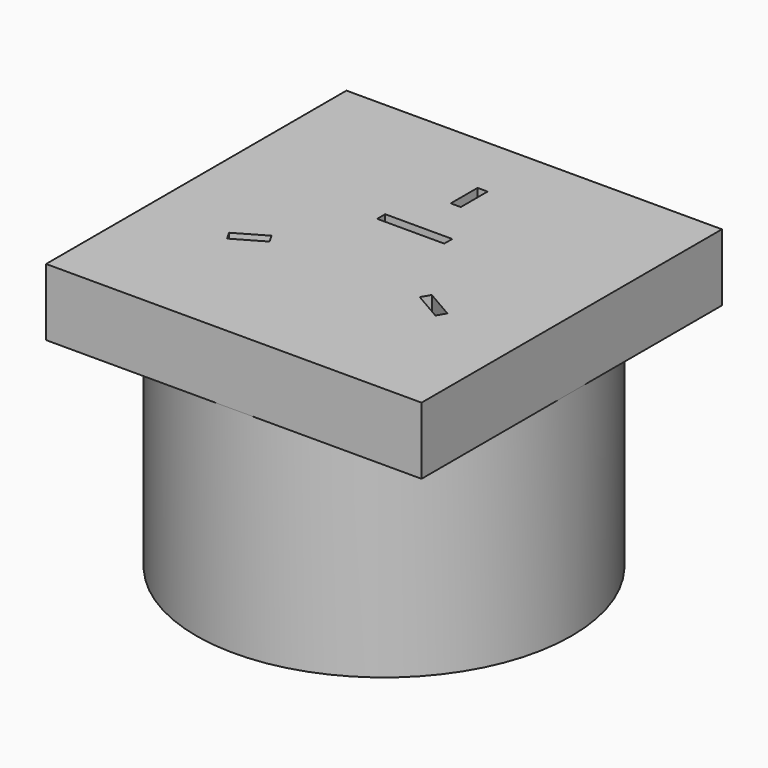
from build123d import *

# Parameters (mm, degrees)
F0_R     = 14
F0_R_2   = 12
F1_DEPTH = 16
F3_DEPTH = 2.5
F4_W     = 28
F4_H     = 28
F5_DEPTH = 5
F6_W     = 5
F6_H     = 0.75
F6_W_2   = 0.375
F6_H_2   = 2.5
F7_DEPTH = 5.001


with BuildPart() as f1:
    # F0 (on Top) → F1 (new body)
    with BuildSketch(Plane.XY):
        Circle(F0_R)
        Circle(F0_R_2, mode=Mode.SUBTRACT)
    extrude(amount=F1_DEPTH)

    # F2 (on Top) → F3 (join)
    with BuildSketch(Plane.XY):
        with BuildLine():
            Line((-11.2159206042, 0.875), (-11.968056442, 0.875))
            ThreePointArc((-11.968056442, 0.875), (-12, 0), (-11.968056442, -0.875))
            Line((-11.968056442, -0.875), (-11.2159206042, -0.875))
            ThreePointArc((-11.2159206042, -0.875), (-11.25, 0), (-11.2159206042, 0.875))
        make_face()
        with BuildLine():
            ThreePointArc((11.968056442, -0.875), (12, 0), (11.968056442, 0.875))
            Line((11.968056442, 0.875), (11.2159206042, 0.875))
            ThreePointArc((11.2159206042, 0.875), (11.25, 0), (11.2159206042, -0.875))
            Line((11.2159206042, -0.875), (11.968056442, -0.875))
        make_face()
    extrude(amount=F3_DEPTH)

    # F4 (on face) → F5 (join)
    with BuildSketch(Plane.XY.offset(16)):
        Rectangle(F4_W, F4_H)
    extrude(amount=F5_DEPTH)

    # F6 (on face) → F7 (cut, through all)
    with BuildSketch(Plane(origin=(0, 0, 16), x_dir=(1, 0, 0), z_dir=(0, 0, -1))):
        with Locations((0, -2.8625)):
            Rectangle(F6_W, F6_H)
        with Locations((0.1875, -7.9375)):
            Rectangle(F6_W_2, F6_H_2)
        with Locations((-0.1875, -7.9375)):
            Rectangle(F6_W_2, F6_H_2)
        Polygon((5.6040448878, 3.6685095264), (5.7915448878, 3.34375), (7.9566083973, 4.59375), (7.7691083973, 4.9185095264), align=None)
        Polygon((7.9566083973, 4.59375), (5.7915448878, 3.34375), (5.9790448878, 3.0189904736), (8.1441083973, 4.2689904736), align=None)
        Polygon((-5.9790448878, 3.0189904736), (-5.7915448878, 3.34375), (-7.9566083973, 4.59375), (-8.1441083973, 4.2689904736), align=None)
        Polygon((-7.9566083973, 4.59375), (-5.7915448878, 3.34375), (-5.6040448878, 3.6685095264), (-7.7691083973, 4.9185095264), align=None)
    extrude(amount=-F7_DEPTH, mode=Mode.SUBTRACT)


solid = f1.part
